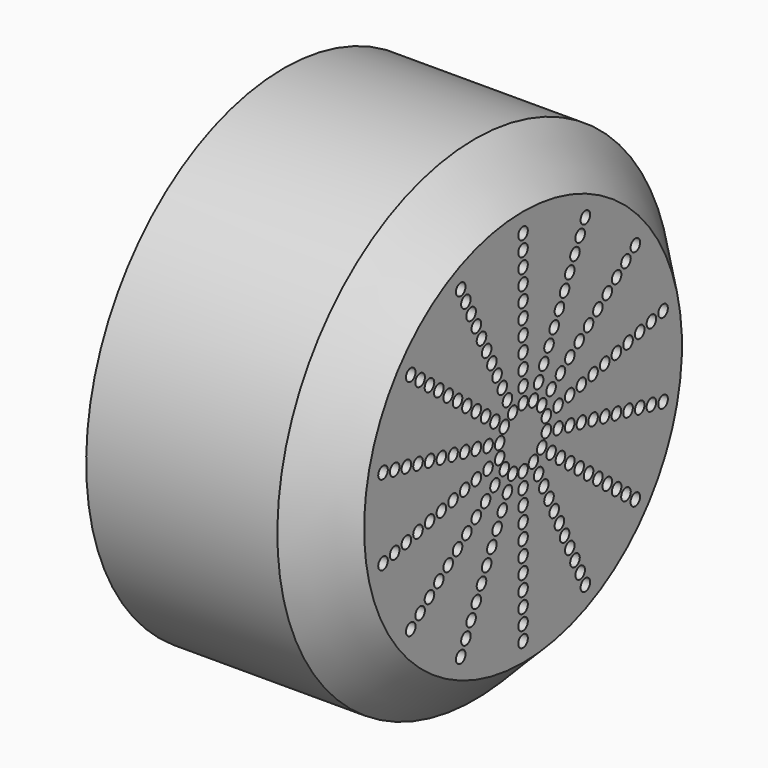
from build123d import *

# Parameters (mm, degrees)
F2_R     = 4
F3_DEPTH = 25


with BuildPart() as f1:
    # F0 (on Front) → F1 (revolve)
    with BuildSketch(Plane.XZ):
        Polygon((170, 100.558875), (170, 0), (180, 0), (180, 132.779438), (147.779438, 165), (20, 165), (20, 145), (125.558875, 145), (149.847703, 145), (170, 124.847703), align=None)
    revolve(axis=Axis((175, 0, 0), (1, 0, 0)))

    # F2 (on face) → F3 (cut)
    with BuildSketch(Plane.YZ.offset(180)):
        with Locations((0, 20)):
            Circle(F2_R)
        with Locations((0, 30)):
            Circle(F2_R)
        with Locations((0, 40)):
            Circle(F2_R)
        with Locations((0, 50)):
            Circle(F2_R)
        with Locations((0, 60)):
            Circle(F2_R)
        with Locations((0, 70)):
            Circle(F2_R)
        with Locations((0, 80)):
            Circle(F2_R)
        with Locations((0, 90)):
            Circle(F2_R)
        with Locations((0, 100)):
            Circle(F2_R)
        with Locations((0, 110)):
            Circle(F2_R)
        with Locations((0, 120)):
            Circle(F2_R)
        with Locations((-21.694187, 45.048443)):
            Circle(F2_R)
        with Locations((-13.016512, 27.029066)):
            Circle(F2_R)
        with Locations((-43.388374, 90.096887)):
            Circle(F2_R)
        with Locations((-39.049537, 81.087198)):
            Circle(F2_R)
        with Locations((-26.033024, 54.058132)):
            Circle(F2_R)
        with Locations((-30.371862, 63.067821)):
            Circle(F2_R)
        with Locations((-34.710699, 72.077509)):
            Circle(F2_R)
        with Locations((-8.677675, 18.019377)):
            Circle(F2_R)
        with Locations((-17.35535, 36.038755)):
            Circle(F2_R)
        with Locations((-52.066049, 108.116264)):
            Circle(F2_R)
        with Locations((-47.727211, 99.106575)):
            Circle(F2_R)
        with Locations((-39.091574, 31.17449)):
            Circle(F2_R)
        with Locations((-23.454944, 18.704694)):
            Circle(F2_R)
        with Locations((-78.183148, 62.34898)):
            Circle(F2_R)
        with Locations((-70.364833, 56.114082)):
            Circle(F2_R)
        with Locations((-46.909889, 37.409388)):
            Circle(F2_R)
        with Locations((-54.728204, 43.644286)):
            Circle(F2_R)
        with Locations((-62.546519, 49.879184)):
            Circle(F2_R)
        with Locations((-15.63663, 12.469796)):
            Circle(F2_R)
        with Locations((-31.273259, 24.939592)):
            Circle(F2_R)
        with Locations((-93.819778, 74.818776)):
            Circle(F2_R)
        with Locations((-86.001463, 68.583878)):
            Circle(F2_R)
        with Locations((-48.746396, 11.126047)):
            Circle(F2_R)
        with Locations((-29.247837, 6.675628)):
            Circle(F2_R)
        with Locations((-97.492791, 22.252093)):
            Circle(F2_R)
        with Locations((-87.743512, 20.026884)):
            Circle(F2_R)
        with Locations((-58.495675, 13.351256)):
            Circle(F2_R)
        with Locations((-68.244954, 15.576465)):
            Circle(F2_R)
        with Locations((-77.994233, 17.801675)):
            Circle(F2_R)
        with Locations((-19.498558, 4.450419)):
            Circle(F2_R)
        with Locations((-38.997116, 8.900837)):
            Circle(F2_R)
        with Locations((-116.991349, 26.702512)):
            Circle(F2_R)
        with Locations((-107.24207, 24.477303)):
            Circle(F2_R)
        with Locations((-48.746396, -11.126047)):
            Circle(F2_R)
        with Locations((-29.247837, -6.675628)):
            Circle(F2_R)
        with Locations((-97.492791, -22.252093)):
            Circle(F2_R)
        with Locations((-87.743512, -20.026884)):
            Circle(F2_R)
        with Locations((-58.495675, -13.351256)):
            Circle(F2_R)
        with Locations((-68.244954, -15.576465)):
            Circle(F2_R)
        with Locations((-77.994233, -17.801675)):
            Circle(F2_R)
        with Locations((-19.498558, -4.450419)):
            Circle(F2_R)
        with Locations((-38.997116, -8.900837)):
            Circle(F2_R)
        with Locations((-116.991349, -26.702512)):
            Circle(F2_R)
        with Locations((-107.24207, -24.477303)):
            Circle(F2_R)
        with Locations((-39.091574, -31.17449)):
            Circle(F2_R)
        with Locations((-23.454944, -18.704694)):
            Circle(F2_R)
        with Locations((-78.183148, -62.34898)):
            Circle(F2_R)
        with Locations((-70.364833, -56.114082)):
            Circle(F2_R)
        with Locations((-46.909889, -37.409388)):
            Circle(F2_R)
        with Locations((-54.728204, -43.644286)):
            Circle(F2_R)
        with Locations((-62.546519, -49.879184)):
            Circle(F2_R)
        with Locations((-15.63663, -12.469796)):
            Circle(F2_R)
        with Locations((-31.273259, -24.939592)):
            Circle(F2_R)
        with Locations((-93.819778, -74.818776)):
            Circle(F2_R)
        with Locations((-86.001463, -68.583878)):
            Circle(F2_R)
        with Locations((-21.694187, -45.048443)):
            Circle(F2_R)
        with Locations((-13.016512, -27.029066)):
            Circle(F2_R)
        with Locations((-43.388374, -90.096887)):
            Circle(F2_R)
        with Locations((-39.049537, -81.087198)):
            Circle(F2_R)
        with Locations((-26.033024, -54.058132)):
            Circle(F2_R)
        with Locations((-30.371862, -63.067821)):
            Circle(F2_R)
        with Locations((-34.710699, -72.077509)):
            Circle(F2_R)
        with Locations((-8.677675, -18.019377)):
            Circle(F2_R)
        with Locations((-17.35535, -36.038755)):
            Circle(F2_R)
        with Locations((-52.066049, -108.116264)):
            Circle(F2_R)
        with Locations((-47.727211, -99.106575)):
            Circle(F2_R)
        with Locations((0, -50)):
            Circle(F2_R)
        with Locations((0, -30)):
            Circle(F2_R)
        with Locations((0, -100)):
            Circle(F2_R)
        with Locations((0, -90)):
            Circle(F2_R)
        with Locations((0, -60)):
            Circle(F2_R)
        with Locations((0, -70)):
            Circle(F2_R)
        with Locations((0, -80)):
            Circle(F2_R)
        with Locations((0, -20)):
            Circle(F2_R)
        with Locations((0, -40)):
            Circle(F2_R)
        with Locations((0, -120)):
            Circle(F2_R)
        with Locations((0, -110)):
            Circle(F2_R)
        with Locations((21.694187, -45.048443)):
            Circle(F2_R)
        with Locations((13.016512, -27.029066)):
            Circle(F2_R)
        with Locations((43.388374, -90.096887)):
            Circle(F2_R)
        with Locations((39.049537, -81.087198)):
            Circle(F2_R)
        with Locations((26.033024, -54.058132)):
            Circle(F2_R)
        with Locations((30.371862, -63.067821)):
            Circle(F2_R)
        with Locations((34.710699, -72.077509)):
            Circle(F2_R)
        with Locations((8.677675, -18.019377)):
            Circle(F2_R)
        with Locations((17.35535, -36.038755)):
            Circle(F2_R)
        with Locations((52.066049, -108.116264)):
            Circle(F2_R)
        with Locations((47.727211, -99.106575)):
            Circle(F2_R)
        with Locations((39.091574, -31.17449)):
            Circle(F2_R)
        with Locations((23.454944, -18.704694)):
            Circle(F2_R)
        with Locations((78.183148, -62.34898)):
            Circle(F2_R)
        with Locations((70.364833, -56.114082)):
            Circle(F2_R)
        with Locations((46.909889, -37.409388)):
            Circle(F2_R)
        with Locations((54.728204, -43.644286)):
            Circle(F2_R)
        with Locations((62.546519, -49.879184)):
            Circle(F2_R)
        with Locations((15.63663, -12.469796)):
            Circle(F2_R)
        with Locations((31.273259, -24.939592)):
            Circle(F2_R)
        with Locations((93.819778, -74.818776)):
            Circle(F2_R)
        with Locations((86.001463, -68.583878)):
            Circle(F2_R)
        with Locations((48.746396, -11.126047)):
            Circle(F2_R)
        with Locations((29.247837, -6.675628)):
            Circle(F2_R)
        with Locations((97.492791, -22.252093)):
            Circle(F2_R)
        with Locations((87.743512, -20.026884)):
            Circle(F2_R)
        with Locations((58.495675, -13.351256)):
            Circle(F2_R)
        with Locations((68.244954, -15.576465)):
            Circle(F2_R)
        with Locations((77.994233, -17.801675)):
            Circle(F2_R)
        with Locations((19.498558, -4.450419)):
            Circle(F2_R)
        with Locations((38.997116, -8.900837)):
            Circle(F2_R)
        with Locations((116.991349, -26.702512)):
            Circle(F2_R)
        with Locations((107.24207, -24.477303)):
            Circle(F2_R)
        with Locations((48.746396, 11.126047)):
            Circle(F2_R)
        with Locations((29.247837, 6.675628)):
            Circle(F2_R)
        with Locations((97.492791, 22.252093)):
            Circle(F2_R)
        with Locations((87.743512, 20.026884)):
            Circle(F2_R)
        with Locations((58.495675, 13.351256)):
            Circle(F2_R)
        with Locations((68.244954, 15.576465)):
            Circle(F2_R)
        with Locations((77.994233, 17.801675)):
            Circle(F2_R)
        with Locations((19.498558, 4.450419)):
            Circle(F2_R)
        with Locations((38.997116, 8.900837)):
            Circle(F2_R)
        with Locations((116.991349, 26.702512)):
            Circle(F2_R)
        with Locations((107.24207, 24.477303)):
            Circle(F2_R)
        with Locations((39.091574, 31.17449)):
            Circle(F2_R)
        with Locations((23.454944, 18.704694)):
            Circle(F2_R)
        with Locations((78.183148, 62.34898)):
            Circle(F2_R)
        with Locations((70.364833, 56.114082)):
            Circle(F2_R)
        with Locations((46.909889, 37.409388)):
            Circle(F2_R)
        with Locations((54.728204, 43.644286)):
            Circle(F2_R)
        with Locations((62.546519, 49.879184)):
            Circle(F2_R)
        with Locations((15.63663, 12.469796)):
            Circle(F2_R)
        with Locations((31.273259, 24.939592)):
            Circle(F2_R)
        with Locations((93.819778, 74.818776)):
            Circle(F2_R)
        with Locations((86.001463, 68.583878)):
            Circle(F2_R)
        with Locations((21.694187, 45.048443)):
            Circle(F2_R)
        with Locations((13.016512, 27.029066)):
            Circle(F2_R)
        with Locations((43.388374, 90.096887)):
            Circle(F2_R)
        with Locations((39.049537, 81.087198)):
            Circle(F2_R)
        with Locations((26.033024, 54.058132)):
            Circle(F2_R)
        with Locations((30.371862, 63.067821)):
            Circle(F2_R)
        with Locations((34.710699, 72.077509)):
            Circle(F2_R)
        with Locations((8.677675, 18.019377)):
            Circle(F2_R)
        with Locations((17.35535, 36.038755)):
            Circle(F2_R)
        with Locations((52.066049, 108.116264)):
            Circle(F2_R)
        with Locations((47.727211, 99.106575)):
            Circle(F2_R)
    extrude(amount=-F3_DEPTH, mode=Mode.SUBTRACT)


solid = f1.part
